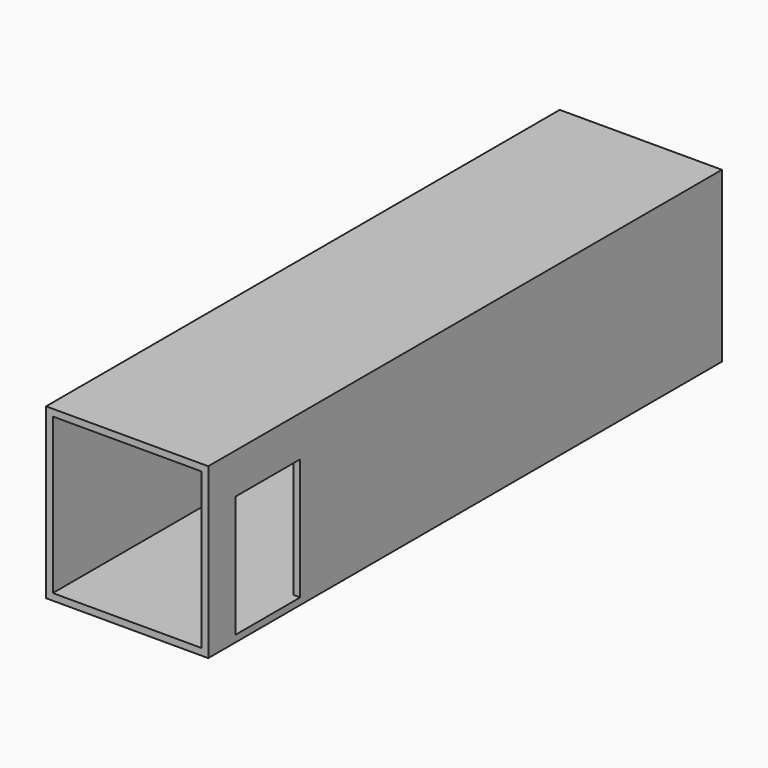
from build123d import *

# Parameters (mm, degrees)
F0_W     = 2400
F0_H     = 2500
F0_W_2   = 2200
F0_H_2   = 2300
F1_DEPTH = 9500
F2_W     = 1200
F2_H     = 1800
F3_DEPTH = 100


with BuildPart() as f1:
    # F0 (on Front) → F1 (new body)
    with BuildSketch(Plane.XZ):
        with Locations((-7.212618, 671.652154)):
            Rectangle(F0_W, F0_H)
        with Locations((-7.212618, 671.652154)):
            Rectangle(F0_W_2, F0_H_2, mode=Mode.SUBTRACT)
    extrude(amount=F1_DEPTH)

    # F2 (on face) → F3 (cut)
    with BuildSketch(Plane.YZ.offset(1192.787382)):
        with Locations((-8400, 421.652154)):
            Rectangle(F2_W, F2_H)
    extrude(amount=-F3_DEPTH, mode=Mode.SUBTRACT)


solid = f1.part
